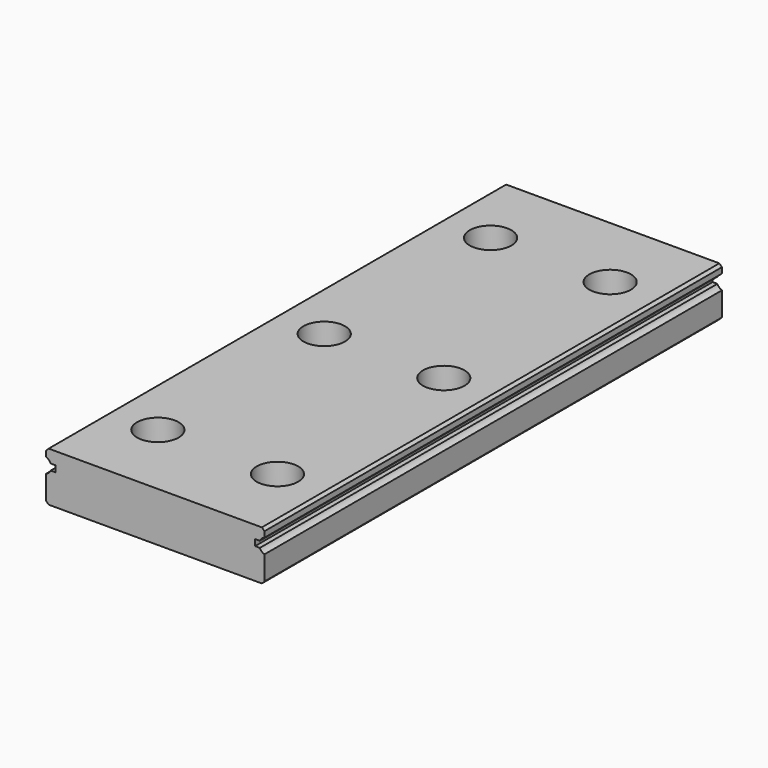
from build123d import *

# Parameters (mm, degrees)
F4_DEPTH       = 110
F6_D           = 4.5
F6_CBORE_D     = 8
F6_CBORE_DEPTH = 4.5


with BuildPart() as f4:
    # F3 (on Front) → F4 (new body)
    with BuildSketch(Plane.XZ):
        with BuildLine():
            Line((-20.5050252532, -4.75), (0, -4.75))
            Line((0, -4.75), (20.5050252532, -4.75))
            Line((20.5050252532, -4.75), (21, -4.2550252532))
            Line((21, -4.2550252532), (21, 0.3357864376))
            ThreePointArc((21, 0.3357864376), (20.4780268553, 0.6520150768), (20.1252272915, 1.15))
            Line((20.1252272915, 1.15), (19.2, 1.15))
            Line((19.2, 1.15), (19.2, 2.35))
            Line((19.2, 2.35), (20.1252272915, 2.35))
            ThreePointArc((20.1252272915, 2.35), (20.4780268553, 2.8479849232), (21, 3.1642135624))
            Line((21, 3.1642135624), (21, 4.2550252532))
            Line((21, 4.2550252532), (20.5050252532, 4.75))
            Line((20.5050252532, 4.75), (0, 4.75))
            Line((0, 4.75), (-20.5050252532, 4.75))
            Line((-20.5050252532, 4.75), (-21, 4.2550252532))
            Line((-21, 4.2550252532), (-21, 3.1642135624))
            ThreePointArc((-21, 3.1642135624), (-20.4780268553, 2.8479849232), (-20.1252272915, 2.35))
            Line((-20.1252272915, 2.35), (-19.2, 2.35))
            Line((-19.2, 2.35), (-19.2, 1.15))
            Line((-19.2, 1.15), (-20.1252272915, 1.15))
            ThreePointArc((-20.1252272915, 1.15), (-20.4780268553, 0.6520150768), (-21, 0.3357864376))
            Line((-21, 0.3357864376), (-21, -4.2550252532))
            Line((-21, -4.2550252532), (-20.5050252532, -4.75))
        make_face()
    extrude(amount=F4_DEPTH)

    # F6 (through all)
    with Locations(Plane.XY.offset(4.75)):
        with Locations((-11.5, -655), (-11.5, -335), (-11.5, -455), (-11.5, -775), (-11.5, -615), (-11.5, -295), (-11.5, -415), (-11.5, -735), (-11.5, -575), (-11.5, -375), (-11.5, -255), (-11.5, -215), (-11.5, -535), (-11.5, -55), (-11.5, -15), (-11.5, -175), (-11.5, -695), (-11.5, -95), (-11.5, -135), (-11.5, -495), (11.5, -455), (11.5, -775), (11.5, -615), (11.5, -295), (11.5, -415), (11.5, -735), (11.5, -695), (11.5, -135), (11.5, -375), (11.5, -215), (11.5, -255), (11.5, -495), (11.5, -175), (11.5, -95), (11.5, -55), (11.5, -535), (11.5, -15), (11.5, -575), (11.5, -655), (11.5, -335), (11.5, -1415), (11.5, -1735), (11.5, -1095), (-11.5, -1935), (-11.5, -975), (-11.5, -1295), (-11.5, -1615), (-11.5, -1415), (-11.5, -1735), (-11.5, -1095), (11.5, -1895), (11.5, -935), (11.5, -1255), (11.5, -1575), (11.5, -1375), (11.5, -1695), (11.5, -1055), (-11.5, -1895), (-11.5, -935), (-11.5, -1255), (-11.5, -1575), (-11.5, -1375), (-11.5, -1695), (-11.5, -1055), (-11.5, -1855), (11.5, -1975), (11.5, -1015), (11.5, -1655), (11.5, -1215), (11.5, -1495), (-11.5, -1335), (-11.5, -1815), (11.5, -1455), (-11.5, -1175), (11.5, -1775), (-11.5, -1135), (11.5, -815), (11.5, -1135), (-11.5, -1975), (-11.5, -855), (11.5, -1815), (11.5, -1935), (11.5, -1175), (-11.5, -1655), (11.5, -1855), (11.5, -1615), (11.5, -1295), (-11.5, -895), (-11.5, -815), (-11.5, -1215), (-11.5, -1455), (11.5, -895), (11.5, -975), (11.5, -1335), (11.5, -1535), (-11.5, -1495), (-11.5, -1535), (-11.5, -1775), (-11.5, -1015), (11.5, -855)):
            CounterBoreHole(F6_D / 2, F6_CBORE_D / 2, F6_CBORE_DEPTH)


solid = f4.part
